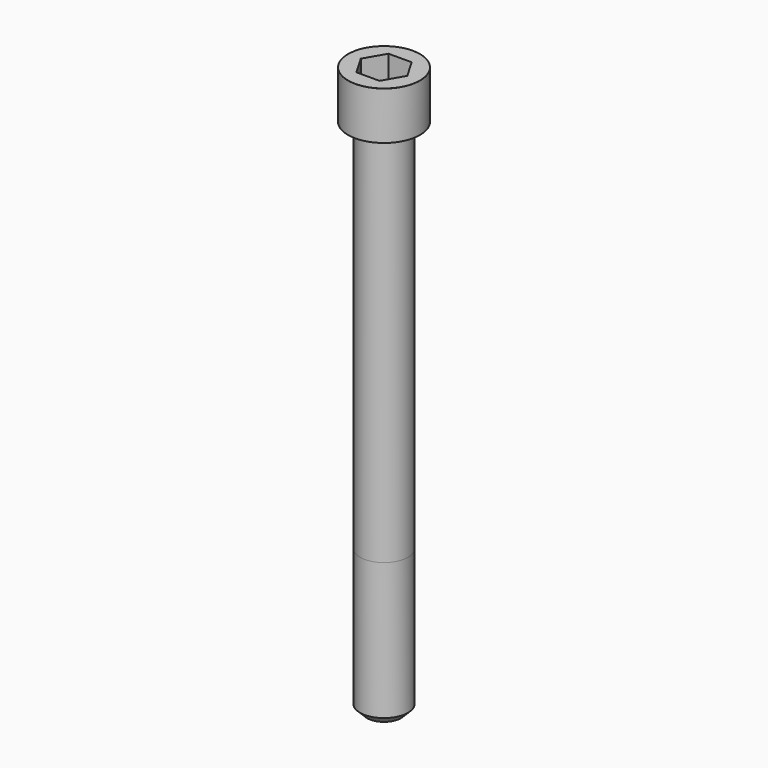
from build123d import *

# Parameters (mm, degrees)
POCKET_DEPTH = 10.07


with BuildPart() as part:
    # Sketch → Revolve (revolve)
    with BuildSketch(Plane.YZ):
        with BuildLine():
            Line((5.999, 0), (9, 0))
            Line((9, 0), (9, 11.97229))
            ThreePointArc((9, 11.97229), (8.991884, 11.991884), (8.97229, 12))
            Line((8.97229, 12), (0, 12))
            Line((0, -130), (0, 12))
            Line((4.25, -130), (0, -130))
            Line((6, -128.25), (4.25, -130))
            Line((6, -94), (6, -128.25))
            Line((5.999, 0), (6, -94))
        make_face()
    revolve(axis=Axis((0, 0, 0), (0, 0, 1)))

    # Sketch001 → Pocket (cut)
    with BuildSketch(Plane.XY.offset(12)):
        Polygon((5.813917, 0), (2.906959, 5.035), (-2.906959, 5.035), (-5.813917, 0), (-2.906959, -5.035), (2.906959, -5.035), align=None)
    extrude(amount=-POCKET_DEPTH, mode=Mode.SUBTRACT)


solid = part.part
